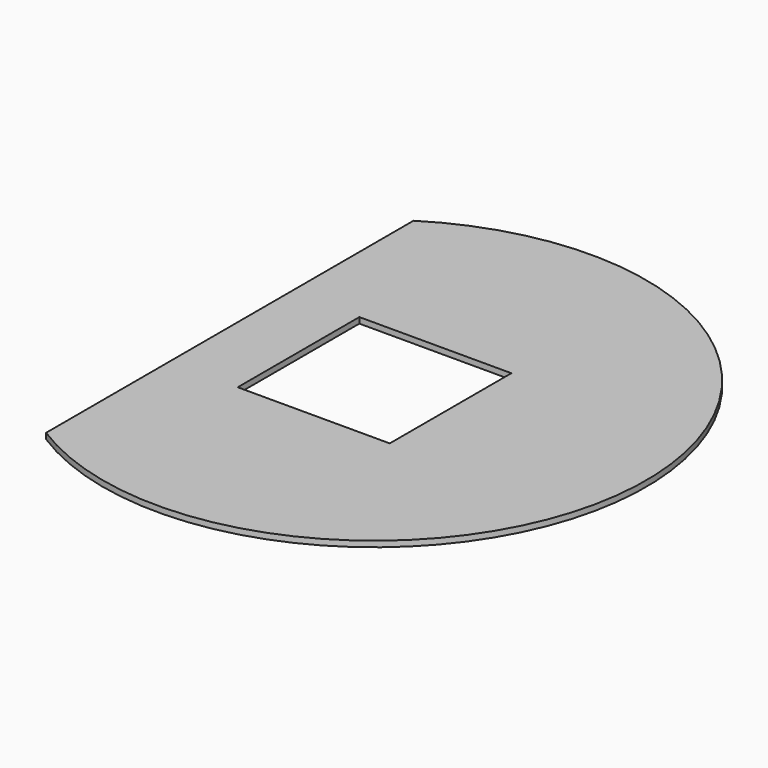
from build123d import *

# Parameters (mm, degrees)
SKETCH062_R     = 75
PAD043_DEPTH    = 1.6
SKETCH063_W     = 42
SKETCH063_H     = 42
POCKET021_DEPTH = 1.601
SKETCH064_W     = 40
SKETCH064_H     = 130
POCKET022_DEPTH = 1.601


with BuildPart() as part:
    # Sketch062 → Pad043 (new body)
    with BuildSketch(Plane.XY):
        Circle(SKETCH062_R)
    extrude(amount=PAD043_DEPTH)

    # Sketch063 (on Face3 of Pad043) → Pocket021 (cut, through all)
    with BuildSketch(Plane.XY.offset(1.6)):
        Rectangle(SKETCH063_W, SKETCH063_H)
    extrude(amount=-POCKET021_DEPTH, mode=Mode.SUBTRACT)

    # Sketch064 (on Face3 of Pocket021) → Pocket022 (cut, through all)
    with BuildSketch(Plane.XY.offset(1.6)):
        with Locations((-60, 0)):
            Rectangle(SKETCH064_W, SKETCH064_H)
    extrude(amount=-POCKET022_DEPTH, mode=Mode.SUBTRACT)


with BuildPart() as part_1:
    # Body024 placement: moved
    add(part.part.moved(Location((0, 0, 16))))


solid = part_1.part
